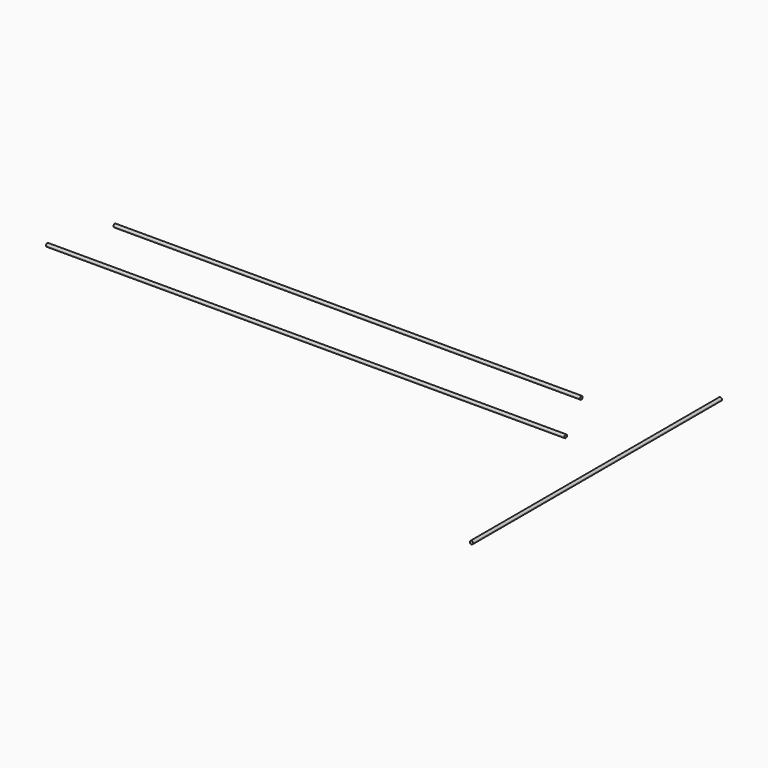
from build123d import *

# Parameters (mm, degrees)
F0_W = 1016
F0_H = 3.175
F2_W = 914.4
F2_H = 3.175
F3_W = 812.8
F3_H = 3.175
F4_W = 762
F4_H = 3.175
F8_W = 3.175
F8_H = 609.6
F9_W = 3.175
F9_H = 914.4


with BuildPart() as f1:
    # F0 (on Top) → F1 (revolve)
    with BuildSketch(Plane.XY):
        with Locations((16.585609, -34.669704)):
            Rectangle(F0_W, F0_H)
    revolve(axis=Axis((16.585609, -36.257204, 0), (1, 0, 0)))


with BuildPart() as f5:
    # F2 (on Top) → F5 (revolve)
    with BuildSketch(Plane.XY):
        with Locations((6.258547, 76.737433)):
            Rectangle(F2_W, F2_H)
    revolve(axis=Axis((6.258547, 78.324933, 0), (1, 0, 0)))


with BuildPart() as f6:
    # F3 (on Top) → F6 (revolve)
    with BuildSketch(Plane.XY):
        with Locations((99.952236, 135.788546)):
            Rectangle(F3_W, F3_H)
    revolve(axis=Axis((99.952236, 137.376046, 0), (1, 0, 0)))


with BuildPart() as f7:
    # F4 (on Top) → F7 (revolve)
    with BuildSketch(Plane.XY):
        with Locations((124.057755, 176.901974)):
            Rectangle(F4_W, F4_H)
    revolve(axis=Axis((124.057755, 178.489474, 0), (1, 0, 0)))


with BuildPart() as f10:
    # F8 (on Top) → F10 (revolve)
    with BuildSketch(Plane.XY):
        with Locations((630.296361, -96.494183)):
            Rectangle(F8_W, F8_H)
    revolve(axis=Axis((631.883861, -96.494183, 0), (0, -1, 0)))


with BuildPart() as f11:
    # F9 (on Top) → F11 (revolve)
    with BuildSketch(Plane.XY):
        with Locations((711.808065, -68.618268)):
            Rectangle(F9_W, F9_H)
    revolve(axis=Axis((713.395565, -68.618268, 0), (0, -1, 0)))


solid = Compound([f1.part, f5.part, f10.part])
